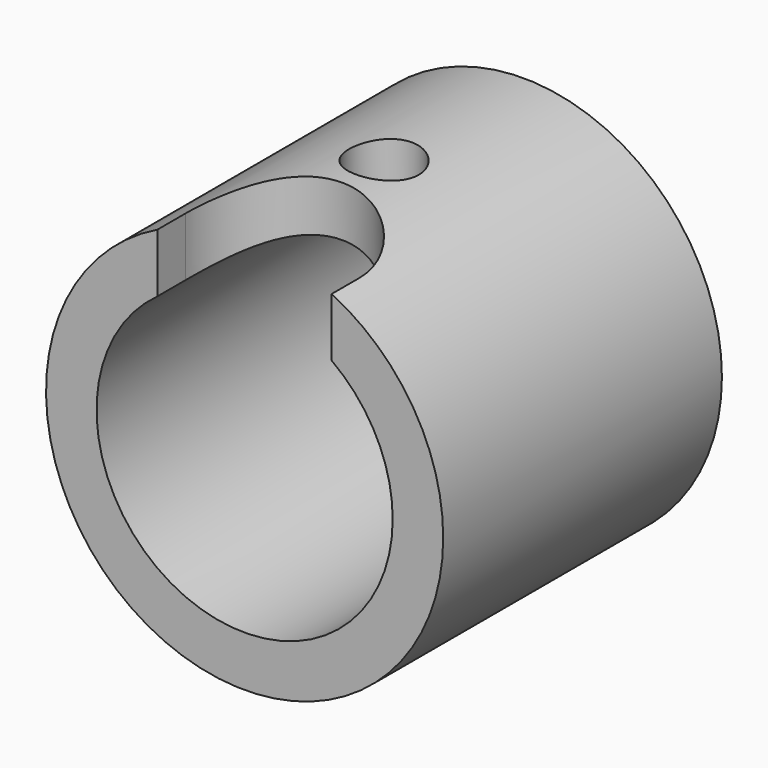
from build123d import *

# Parameters (mm, degrees)
F1_R     = 5.7
F1_R_2   = 4.25
F2_DEPTH = 10
F3_R     = 1
F4_DEPTH = 5.701


with BuildPart() as f2:
    # F1 (on Front) → F2 (new body)
    with BuildSketch(Plane.XZ):
        Circle(F1_R)
        Circle(F1_R_2, mode=Mode.SUBTRACT)
    extrude(amount=F2_DEPTH)

    # F3 (on Top) → F4 (cut, through all)
    with BuildSketch(Plane.XY):
        with Locations((0, -5)):
            Circle(F3_R)
        with BuildLine():
            Line((2.5, -10), (2.5, -9))
            ThreePointArc((2.5, -9), (0, -6.5), (-2.5, -9))
            Line((-2.5, -9), (-2.5, -10))
            Line((-2.5, -10), (2.5, -10))
        make_face()
    extrude(amount=F4_DEPTH, mode=Mode.SUBTRACT)


solid = f2.part
